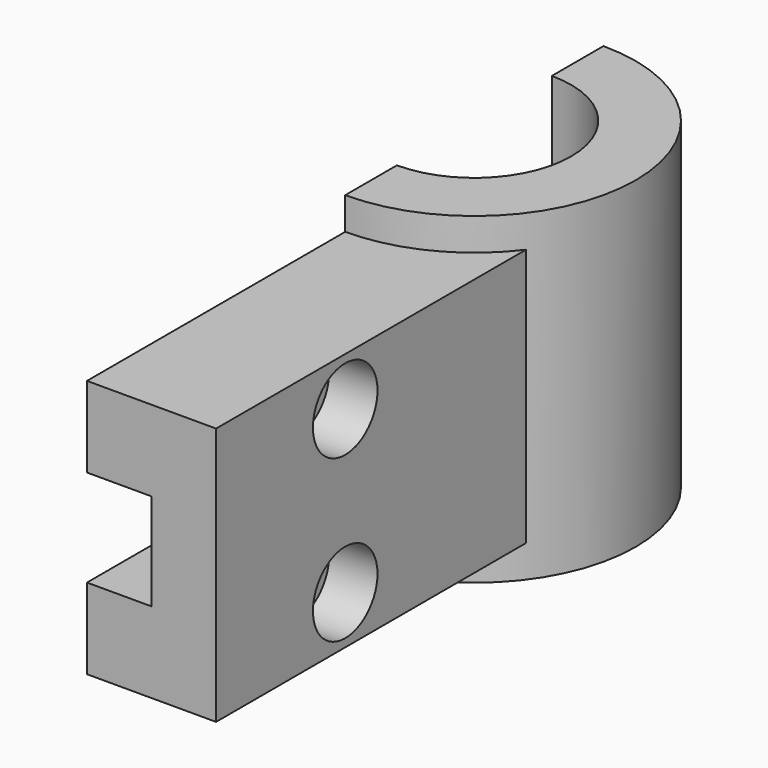
from build123d import *

# Parameters (mm, degrees)
F1_DEPTH = 4
F2_DEPTH = 5
F3_W     = 12
F3_H     = 3
F3_W_2   = 0.4951214439
F4_DEPTH = 2
F5_R     = 1.25
F5_R_2   = 0.875
F6_DEPTH = 1.5
F7_DEPTH = 25


with BuildPart() as f1:
    # F0 (on Top) → F1 (new body, symmetric)
    with BuildSketch(Plane.XY):
        with BuildLine():
            Line((-2.528, 23.2174559587), (1.472, 23.2174559587))
            Line((1.472, 23.2174559587), (1.472, 35.2174559587))
            ThreePointArc((1.472, 35.2174559587), (-0.2919320225, 33.7453200037), (-2.528, 33.2174559587))
            Line((-2.528, 33.2174559587), (-2.528, 23.2174559587))
        make_face()
    extrude(amount=F1_DEPTH, both=True)

    # F0 (on Top) → F2 (join, symmetric)
    with BuildSketch(Plane.XY):
        with BuildLine():
            ThreePointArc((-2.528, 33.2174559587), (-0.2919320225, 33.7453200037), (1.472, 35.2174559587))
            ThreePointArc((1.472, 35.2174559587), (1.944135955, 40.4535239362), (-2.528, 43.2174559587))
            Line((-2.528, 43.2174559587), (-2.528, 41.2174559587))
            ThreePointArc((-2.528, 41.2174559587), (0.472, 38.2174559587), (-2.528, 35.2174559587))
            Line((-2.528, 35.2174559587), (-2.528, 33.2174559587))
        make_face()
    extrude(amount=F2_DEPTH, both=True)

    # F3 (on face) → F4 (cut)
    with BuildSketch(Plane(origin=(-2.528, 0, 0), x_dir=(0, -1, 0), z_dir=(-1, 0, 0))):
        with Locations((-29.2174559587, 0)):
            Rectangle(F3_W, F3_H)
        with Locations((-35.4650166806, 0)):
            Rectangle(F3_W_2, F3_H)
    extrude(amount=-F4_DEPTH, mode=Mode.SUBTRACT)

    # F5 (on face) → F6 (cut)
    with BuildSketch(Plane.YZ.offset(1.472)):
        with Locations((28.2174559587, 2.5)):
            Circle(F5_R)
        with Locations((28.2174559587, 2.5)):
            Circle(F5_R_2, mode=Mode.SUBTRACT)
        with Locations((28.2174559587, -2.5)):
            Circle(F5_R)
        with Locations((28.2174559587, -2.5)):
            Circle(F5_R_2, mode=Mode.SUBTRACT)
    extrude(amount=-F6_DEPTH, mode=Mode.SUBTRACT)

    # F7 (cut): faces of the model
    f7_faces = [f1.faces().sort_by_distance(p)[0] for p in [
        (1.472, 28.2174559587, 2.5),
        (1.472, 28.2174559587, -2.5),
    ]]
    extrude(f7_faces, amount=-F7_DEPTH, mode=Mode.SUBTRACT)


solid = f1.part
